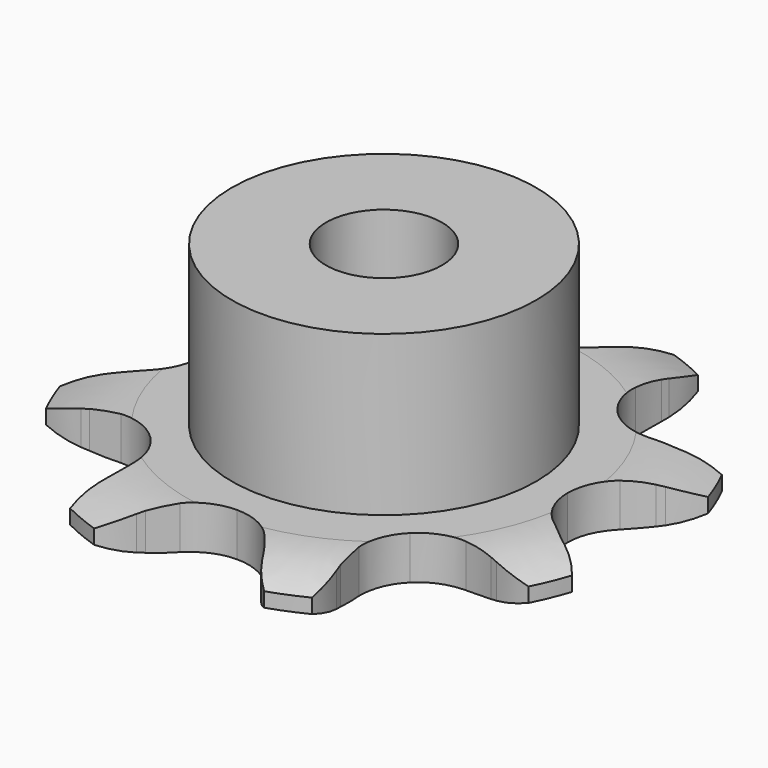
from build123d import *

# Parameters (mm, degrees)
PAD_DEPTH         = 3
SKETCH001_R       = 10.5
PAD001_DEPTH      = 14
SKETCH002_R       = 4
POCKET_DEPTH      = 0.001
POCKET_DEPTH_BACK = -14.001


with BuildPart() as part:
    # Sprocket → Pad (new body)
    with BuildSketch(Plane.XY):
        with BuildLine():
            ThreePointArc((-7.750718, 18.711888), (-5.807188, 17.609119), (-4.336956, 15.926317))
            Line((-4.336956, 15.926317), (-4.068236, 15.487805))
            ThreePointArc((-4.068236, 15.487805), (-3.521035, 14.684133), (-2.899325, 13.936608))
            ThreePointArc((-2.899325, 13.936608), (-1.583791, 12.99391), (0, 12.660875))
            ThreePointArc((0, 12.660875), (1.583791, 12.99391), (2.899325, 13.936608))
            ThreePointArc((2.899325, 13.936608), (3.521035, 14.684133), (4.068236, 15.487805))
            Line((4.068236, 15.487805), (4.336956, 15.926317))
            ThreePointArc((4.336956, 15.926317), (5.807188, 17.609119), (7.750718, 18.711888))
            ThreePointArc((7.750718, 18.711888), (8.345226, 16.557829), (8.194916, 14.328297))
            Line((8.194916, 14.328297), (8.074855, 13.828209))
            ThreePointArc((8.074855, 13.828209), (7.893503, 12.872998), (7.804538, 11.904802))
            ThreePointArc((7.804538, 11.904802), (8.068172, 10.307992), (8.95259, 8.95259))
            ThreePointArc((8.95259, 8.95259), (10.307992, 8.068172), (11.904802, 7.804538))
            Line((11.904802, 7.804538), (13.828209, 8.074855))
            ThreePointArc((13.828209, 8.074855), (14.077491, 8.138059), (14.328297, 8.194916))
            ThreePointArc((14.328297, 8.194916), (16.557829, 8.345226), (18.711888, 7.750718))
            ThreePointArc((18.711888, 7.750718), (17.609119, 5.807188), (15.926317, 4.336956))
            Line((15.926317, 4.336956), (15.487805, 4.068236))
            ThreePointArc((15.487805, 4.068236), (14.684133, 3.521035), (13.936608, 2.899325))
            ThreePointArc((13.936608, 2.899325), (12.99391, 1.583791), (12.660875, 0))
            ThreePointArc((12.660875, 0), (12.99391, -1.583791), (13.936608, -2.899325))
            Line((13.936608, -2.899325), (15.487805, -4.068236))
            ThreePointArc((15.487805, -4.068236), (15.708766, -4.199813), (15.926317, -4.336956))
            ThreePointArc((15.926317, -4.336956), (17.609119, -5.807188), (18.711888, -7.750718))
            ThreePointArc((18.711888, -7.750718), (16.557829, -8.345226), (14.328297, -8.194916))
            Line((14.328297, -8.194916), (13.828209, -8.074855))
            ThreePointArc((13.828209, -8.074855), (12.872998, -7.893503), (11.904802, -7.804538))
            ThreePointArc((11.904802, -7.804538), (10.307992, -8.068172), (8.95259, -8.95259))
            ThreePointArc((8.95259, -8.95259), (8.068172, -10.307992), (7.804538, -11.904802))
            Line((7.804538, -11.904802), (8.074855, -13.828209))
            ThreePointArc((8.074855, -13.828209), (8.138059, -14.077491), (8.194916, -14.328297))
            ThreePointArc((8.194916, -14.328297), (8.345226, -16.557829), (7.750718, -18.711888))
            ThreePointArc((7.750718, -18.711888), (5.807188, -17.609119), (4.336956, -15.926317))
            Line((4.336956, -15.926317), (4.068236, -15.487805))
            ThreePointArc((4.068236, -15.487805), (3.521035, -14.684133), (2.899325, -13.936608))
            ThreePointArc((2.899325, -13.936608), (1.583791, -12.99391), (0, -12.660875))
            ThreePointArc((0, -12.660875), (-1.583791, -12.99391), (-2.899325, -13.936608))
            Line((-2.899325, -13.936608), (-4.068236, -15.487805))
            ThreePointArc((-4.068236, -15.487805), (-4.199813, -15.708766), (-4.336956, -15.926317))
            ThreePointArc((-4.336956, -15.926317), (-5.807188, -17.609119), (-7.750718, -18.711888))
            ThreePointArc((-7.750718, -18.711888), (-8.345226, -16.557829), (-8.194916, -14.328297))
            Line((-8.194916, -14.328297), (-8.074855, -13.828209))
            ThreePointArc((-8.074855, -13.828209), (-7.893503, -12.872998), (-7.804538, -11.904802))
            ThreePointArc((-7.804538, -11.904802), (-8.068172, -10.307992), (-8.95259, -8.95259))
            ThreePointArc((-8.95259, -8.95259), (-10.307992, -8.068172), (-11.904802, -7.804538))
            Line((-11.904802, -7.804538), (-13.828209, -8.074855))
            ThreePointArc((-13.828209, -8.074855), (-14.077491, -8.138059), (-14.328297, -8.194916))
            ThreePointArc((-14.328297, -8.194916), (-16.557829, -8.345226), (-18.711888, -7.750718))
            ThreePointArc((-18.711888, -7.750718), (-17.609119, -5.807188), (-15.926317, -4.336956))
            Line((-15.926317, -4.336956), (-15.487805, -4.068236))
            ThreePointArc((-15.487805, -4.068236), (-14.684133, -3.521035), (-13.936608, -2.899325))
            ThreePointArc((-13.936608, -2.899325), (-12.99391, -1.583791), (-12.660875, 0))
            ThreePointArc((-12.660875, 0), (-12.99391, 1.583791), (-13.936608, 2.899325))
            Line((-13.936608, 2.899325), (-15.487805, 4.068236))
            ThreePointArc((-15.487805, 4.068236), (-15.708766, 4.199813), (-15.926317, 4.336956))
            ThreePointArc((-15.926317, 4.336956), (-17.609119, 5.807188), (-18.711888, 7.750718))
            ThreePointArc((-18.711888, 7.750718), (-16.557829, 8.345226), (-14.328297, 8.194916))
            Line((-14.328297, 8.194916), (-13.828209, 8.074855))
            ThreePointArc((-13.828209, 8.074855), (-12.872998, 7.893503), (-11.904802, 7.804538))
            ThreePointArc((-11.904802, 7.804538), (-10.307992, 8.068172), (-8.95259, 8.95259))
            ThreePointArc((-8.95259, 8.95259), (-8.068172, 10.307992), (-7.804538, 11.904802))
            Line((-7.804538, 11.904802), (-8.074855, 13.828209))
            ThreePointArc((-8.074855, 13.828209), (-8.138059, 14.077491), (-8.194916, 14.328297))
            ThreePointArc((-8.194916, 14.328297), (-8.345226, 16.557829), (-7.750718, 18.711888))
        make_face()
    extrude(amount=PAD_DEPTH)

    # Sketch → Groove (revolve, cut)
    with BuildSketch(Plane.XZ):
        with BuildLine():
            Line((13.6, 0), (18.6, 0))
            Line((23.6, 0), (18.6, 0))
            Line((23.6, 3), (23.6, 0))
            Line((18.6, 3), (23.6, 3))
            Line((13.6, 3), (18.6, 3))
            ThreePointArc((18.6, 2), (16.14951, 2.747549), (13.6, 3))
            Line((18.6, 1), (18.6, 2))
            ThreePointArc((13.6, 0), (16.14951, 0.252451), (18.6, 1))
        make_face()
    revolve(axis=Axis((0, 0, 0), (0, 0, 1)), mode=Mode.SUBTRACT)

    # Sketch001 → Pad001 (join)
    with BuildSketch(Plane.XY):
        Circle(SKETCH001_R)
    extrude(amount=PAD001_DEPTH)

    # Sketch002 → Pocket (cut, two sides)
    with BuildSketch(Plane.XY) as pocket_sk:
        Circle(SKETCH002_R)
    extrude(amount=-POCKET_DEPTH, mode=Mode.SUBTRACT)
    extrude(pocket_sk.sketch, amount=-POCKET_DEPTH_BACK, mode=Mode.SUBTRACT)


solid = part.part
